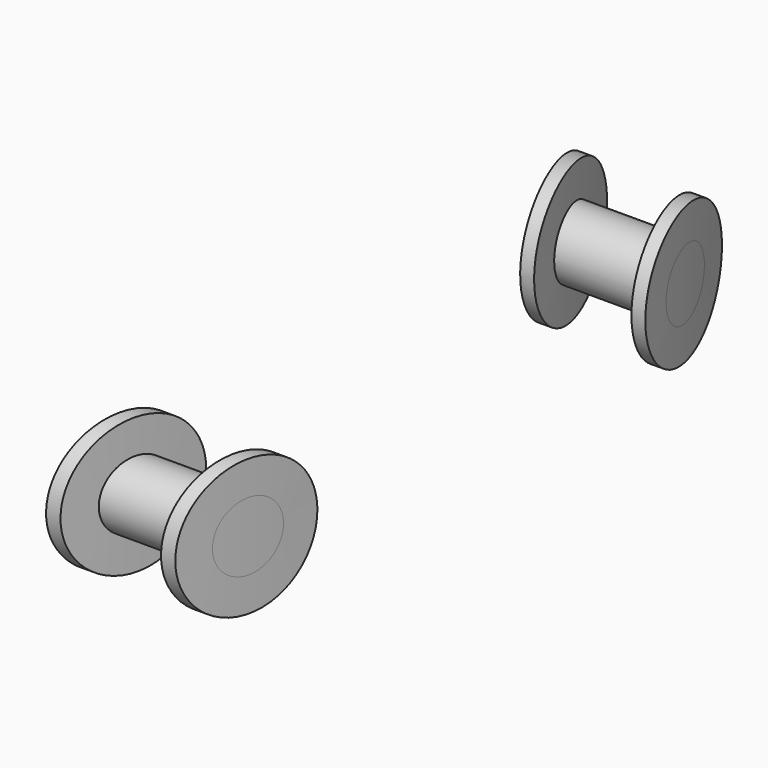
from build123d import *

# Parameters (mm, degrees)
F1_R     = 99.06
F1_R_2   = 97.79
F2_DEPTH = 12.7
F1_R_3   = 109.22
F1_R_4   = 107.95
F0_R     = 6.35
F0_R_2   = 3.175
F3_DEPTH = 208.28
F4_DEPTH = 113.03
F1_R_5   = 152.4
F5_DEPTH = 12.7


with BuildPart() as f2:
    # F1 (on Top) → F2 (new body, symmetric)
    with BuildSketch(Plane.XY):
        Circle(F1_R)
        Circle(F1_R_2, mode=Mode.SUBTRACT)
    extrude(amount=F2_DEPTH, both=True)


with BuildPart() as f2b:
    # F1 (on Top) → F2, piece 2 (new body, symmetric)
    with BuildSketch(Plane.XY):
        Circle(F1_R_3)
        Circle(F1_R_4, mode=Mode.SUBTRACT)
    extrude(amount=F2_DEPTH, both=True)


with BuildPart() as f3_tool:
    # F0 (on Right) → F3 (new body)
    with BuildSketch(Plane.YZ):
        with Locations((-25.4, 0)):
            Circle(F0_R)
        with Locations((-25.4, 0)):
            Circle(F0_R_2, mode=Mode.SUBTRACT)
        with BuildLine():
            ThreePointArc((31.75, 0), (25.4, 6.35), (19.05, 0))
            ThreePointArc((19.05, 0), (25.4, -6.35), (31.75, 0))
        make_face()
        with BuildLine():
            ThreePointArc((28.575, 0), (25.4, -3.175), (22.225, 0))
            ThreePointArc((22.225, 0), (25.4, 3.175), (28.575, 0))
        make_face(mode=Mode.SUBTRACT)
        with Locations((-25.4, 0)):
            Circle(F0_R_2)
        with BuildLine():
            ThreePointArc((28.575, 0), (25.4, 3.175), (22.225, 0))
            ThreePointArc((22.225, 0), (25.4, -3.175), (28.575, 0))
        make_face()
    extrude(amount=F3_DEPTH)


with BuildPart() as f2_1:
    add(f2.part)

    # F3: intersect by f3_tool
    add(f3_tool.part, mode=Mode.INTERSECT)



with BuildPart() as f2b_1:
    add(f2b.part)

    # F3: intersect by f3_tool
    add(f3_tool.part, mode=Mode.INTERSECT)


with BuildPart() as f2_2:
    add(f2_1.part)

    add(f2b_1.part)  # F4 merges F2b
    # F0 (on Right) → F4 (join)
    with BuildSketch(Plane.YZ):
        with Locations((-25.4, 0)):
            Circle(F0_R_2)
        with BuildLine():
            ThreePointArc((28.575, 0), (25.4, 3.175), (22.225, 0))
            ThreePointArc((22.225, 0), (25.4, -3.175), (28.575, 0))
        make_face()
    extrude(amount=F4_DEPTH)

    # F1 (on Top) → F5 (cut, symmetric)
    with BuildSketch(Plane.XY):
        Circle(F1_R_5)
        Circle(F1_R_3, mode=Mode.SUBTRACT)
        Circle(F1_R_2)
    extrude(amount=F5_DEPTH, both=True, mode=Mode.SUBTRACT)


solid = f2_2.part
